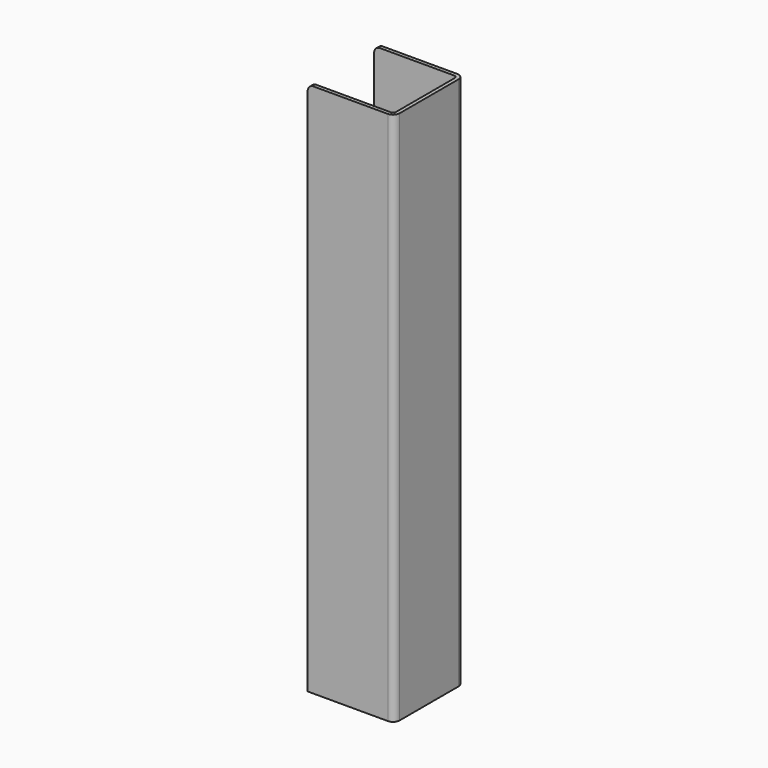
from build123d import *

# Parameters (mm, degrees)
F1_DEPTH = 469.9
F2_R     = 5.08


with BuildPart() as f1:
    # F0 (on Top) → F1 (new body)
    with BuildSketch(Plane.XY):
        with BuildLine():
            Line((-5.715, 42.267205), (-76.2, 42.267205))
            Line((-76.2, 42.267205), (-76.2, 39.092205))
            Line((-76.2, 39.092205), (-5.715, 39.092205))
            ThreePointArc((-5.715, 39.092205), (-3.918949, 38.348257), (-3.175, 36.552205))
            Line((-3.175, 36.552205), (-3.175, -28.217795))
            ThreePointArc((-3.175, -28.217795), (-3.918949, -30.013846), (-5.715, -30.757795))
            Line((-5.715, -30.757795), (-76.2, -30.757795))
            Line((-76.2, -30.757795), (-76.2, -33.932795))
            Line((-76.2, -33.932795), (-5.715, -33.932795))
            ThreePointArc((-5.715, -33.932795), (-1.673885, -32.25891), (0, -28.217795))
            Line((0, -28.217795), (0, 36.552205))
            ThreePointArc((0, 36.552205), (-1.673885, 40.593321), (-5.715, 42.267205))
        make_face()
    extrude(amount=F1_DEPTH)

    # F2
    f2_edges = [f1.edges().sort_by_distance(p)[0] for p in [
        (-76.2, -32.345295, 469.9),
        (-76.2, 40.679705, 469.9),
    ]]
    fillet(f2_edges, radius=F2_R)


solid = f1.part
